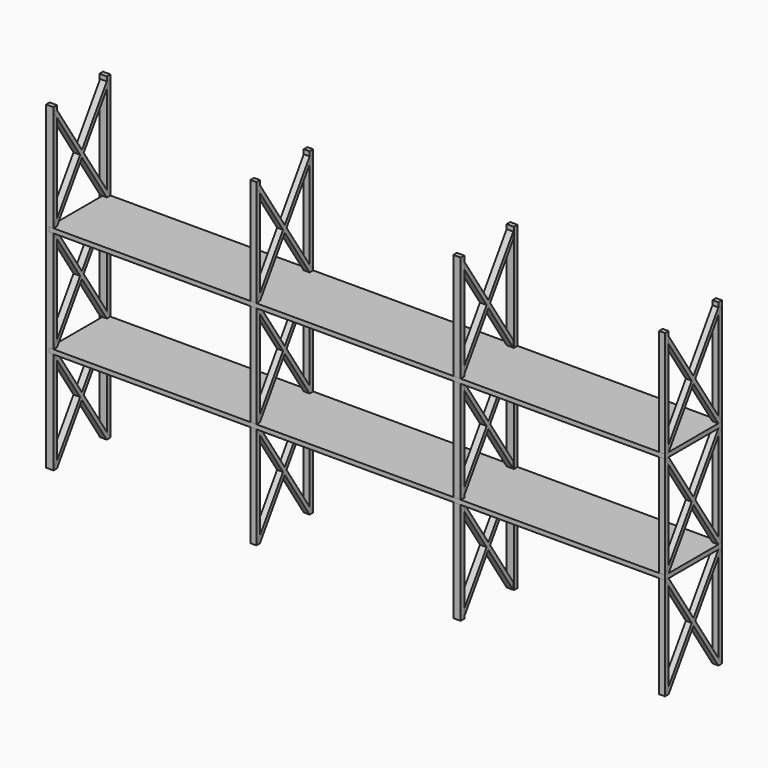
from build123d import *

# Parameters (mm, degrees)
F0_W           = 7010.4
F0_H           = 76.2
F1_DEPTH       = 1219.2
F2_W           = 76.2
F2_H           = 5486.4
F3_DEPTH       = 76.2
F3_DEPTH_BACK  = 50.8
F4_W           = 76.2
F4_H           = 5486.4
F5_DEPTH       = 50.8
F5_DEPTH_BACK  = 76.2
F7_DEPTH       = 38.1
F7_DEPTH_BACK  = 76.2
F9_DEPTH       = 38.1
F9_DEPTH_BACK  = 76.2
F11_DEPTH      = 38.1
F11_DEPTH_BACK = 76.2
F13_DEPTH      = 38.1
F13_DEPTH_BACK = 76.2
F15_DEPTH      = 38.1
F15_DEPTH_BACK = 76.2
F17_DEPTH      = 38.1
F17_DEPTH_BACK = 76.2
F18_W          = 101.6
F18_H          = 5486.4
F19_DEPTH      = 76.2
F20_W          = 101.6
F20_H          = 5486.4
F21_DEPTH      = 76.2
F23_DEPTH      = 101.6
F25_DEPTH      = 101.6
F27_DEPTH      = 101.6
F31_W          = 3454.4
F31_H          = 1219.2
F32_DEPTH      = 3657.601


with BuildPart() as f1:
    # F0 (on Front) → F1 (new body)
    with BuildSketch(Plane.XZ):
        with Locations((3505.2, 1790.7)):
            Rectangle(F0_W, F0_H)
    extrude(amount=-F1_DEPTH)



with BuildPart() as f1b:
    # F0 (on Front) → F1, piece 2 (new body)
    with BuildSketch(Plane.XZ):
        with Locations((3505.2, 3619.5)):
            Rectangle(F0_W, F0_H)
    extrude(amount=-F1_DEPTH)


with BuildPart() as f3:
    # F2 (on face) → F3 (new body, two sides)
    with BuildSketch(Plane(origin=(0, 0, 0), x_dir=(0, -1, 0), z_dir=(-1, 0, 0))) as f3_sk:
        with Locations((-38.1, 2743.2)):
            Rectangle(F2_W, F2_H)
    extrude(amount=-F3_DEPTH)
    extrude(f3_sk.sketch, amount=F3_DEPTH_BACK)


with BuildPart() as f3b:
    # F2 (on face) → F3, piece 2 (new body, two sides)
    with BuildSketch(Plane(origin=(0, 0, 0), x_dir=(0, -1, 0), z_dir=(-1, 0, 0))) as f3_2_sk:
        with Locations((-1181.1, 2743.2)):
            Rectangle(F2_W, F2_H)
    extrude(amount=-F3_DEPTH)
    extrude(f3_2_sk.sketch, amount=F3_DEPTH_BACK)


with BuildPart() as f5:
    # F4 (on face) → F5 (new body, two sides)
    with BuildSketch(Plane.YZ.offset(7010.4)) as f5_sk:
        with Locations((38.1, 2743.2)):
            Rectangle(F4_W, F4_H)
    extrude(amount=F5_DEPTH)
    extrude(f5_sk.sketch, amount=-F5_DEPTH_BACK)


with BuildPart() as f5b:
    # F4 (on face) → F5, piece 2 (new body, two sides)
    with BuildSketch(Plane.YZ.offset(7010.4)) as f5_2_sk:
        with Locations((1181.1, 2743.2)):
            Rectangle(F4_W, F4_H)
    extrude(amount=F5_DEPTH)
    extrude(f5_2_sk.sketch, amount=-F5_DEPTH_BACK)


with BuildPart() as f7:
    # F6 (on face) → F7 (new body, two sides)
    with BuildSketch(Plane(origin=(0, 0, 0), x_dir=(0, -1, 0), z_dir=(-1, 0, 0))) as f7_sk:
        Polygon((-1143, 1752.6), (-1219.2, 1752.6), (-647.7, 876.3), (-609.6, 934.72), align=None)
        Polygon((-609.6, 934.72), (-647.7, 876.3), (-609.6, 817.88), (-571.5, 876.3), align=None)
        Polygon((-609.6, 817.88), (-647.7, 876.3), (-1219.2, 0), (-1143, 0), align=None)
        Polygon((-571.5, 876.3), (-609.6, 817.88), (-76.2, 0), (0, 0), align=None)
        Polygon((-76.2, 1752.6), (-609.6, 934.72), (-571.5, 876.3), (0, 1752.6), align=None)
    extrude(amount=F7_DEPTH)
    extrude(f7_sk.sketch, amount=-F7_DEPTH_BACK)


with BuildPart() as f9:
    # F8 (on face) → F9 (new body, two sides)
    with BuildSketch(Plane(origin=(0, 0, 0), x_dir=(0, -1, 0), z_dir=(-1, 0, 0))) as f9_sk:
        Polygon((-1143, 3581.4), (-1219.2, 3581.4), (-647.7, 2705.1), (-609.6, 2763.52), align=None)
        Polygon((-609.6, 2763.52), (-647.7, 2705.1), (-609.6, 2646.68), (-571.5, 2705.1), align=None)
        Polygon((-609.6, 2646.68), (-647.7, 2705.1), (-1219.2, 1828.8), (-1143, 1828.8), align=None)
        Polygon((-571.5, 2705.1), (-609.6, 2646.68), (-76.2, 1828.8), (0, 1828.8), align=None)
        Polygon((-76.2, 3581.4), (-609.6, 2763.52), (-571.5, 2705.1), (0, 3581.4), align=None)
    extrude(amount=F9_DEPTH)
    extrude(f9_sk.sketch, amount=-F9_DEPTH_BACK)


with BuildPart() as f11:
    # F10 (on face) → F11 (new body, two sides)
    with BuildSketch(Plane(origin=(0, 0, 0), x_dir=(0, -1, 0), z_dir=(-1, 0, 0))) as f11_sk:
        Polygon((-1143, 5410.2), (-1219.2, 5410.2), (-647.7, 4533.9), (-609.6, 4592.32), align=None)
        Polygon((-609.6, 4592.32), (-647.7, 4533.9), (-609.6, 4475.48), (-571.5, 4533.9), align=None)
        Polygon((-609.6, 4475.48), (-647.7, 4533.9), (-1219.2, 3657.6), (-1143, 3657.6), align=None)
        Polygon((-571.5, 4533.9), (-609.6, 4475.48), (-76.2, 3657.6), (0, 3657.6), align=None)
        Polygon((-76.2, 5410.2), (-609.6, 4592.32), (-571.5, 4533.9), (0, 5410.2), align=None)
    extrude(amount=F11_DEPTH)
    extrude(f11_sk.sketch, amount=-F11_DEPTH_BACK)


with BuildPart() as f13:
    # F12 (on face) → F13 (new body, two sides)
    with BuildSketch(Plane.YZ.offset(7010.4)) as f13_sk:
        Polygon((76.2, 1752.6), (0, 1752.6), (571.5, 876.3), (609.6, 934.72), align=None)
        Polygon((609.6, 934.72), (571.5, 876.3), (609.6, 817.88), (647.7, 876.3), align=None)
        Polygon((609.6, 817.88), (571.5, 876.3), (0, 0), (76.2, 0), align=None)
        Polygon((647.7, 876.3), (609.6, 817.88), (1143, 0), (1219.2, 0), align=None)
        Polygon((1143, 1752.6), (609.6, 934.72), (647.7, 876.3), (1219.2, 1752.6), align=None)
    extrude(amount=F13_DEPTH)
    extrude(f13_sk.sketch, amount=-F13_DEPTH_BACK)


with BuildPart() as f15:
    # F14 (on face) → F15 (new body, two sides)
    with BuildSketch(Plane.YZ.offset(7010.4)) as f15_sk:
        Polygon((76.2, 3581.4), (0, 3581.4), (571.5, 2705.1), (609.6, 2763.52), align=None)
        Polygon((609.6, 2763.52), (571.5, 2705.1), (609.6, 2646.68), (647.7, 2705.1), align=None)
        Polygon((609.6, 2646.68), (571.5, 2705.1), (0, 1828.8), (76.2, 1828.8), align=None)
        Polygon((647.7, 2705.1), (609.6, 2646.68), (1143, 1828.8), (1219.2, 1828.8), align=None)
        Polygon((1143, 3581.4), (609.6, 2763.52), (647.7, 2705.1), (1219.2, 3581.4), align=None)
    extrude(amount=F15_DEPTH)
    extrude(f15_sk.sketch, amount=-F15_DEPTH_BACK)


with BuildPart() as f17:
    # F16 (on face) → F17 (new body, two sides)
    with BuildSketch(Plane.YZ.offset(7010.4)) as f17_sk:
        Polygon((76.2, 5410.2), (0, 5410.2), (571.5, 4533.9), (609.6, 4592.32), align=None)
        Polygon((609.6, 4592.32), (571.5, 4533.9), (609.6, 4475.48), (647.7, 4533.9), align=None)
        Polygon((609.6, 4475.48), (571.5, 4533.9), (0, 3657.6), (76.2, 3657.6), align=None)
        Polygon((647.7, 4533.9), (609.6, 4475.48), (1143, 3657.6), (1219.2, 3657.6), align=None)
        Polygon((1143, 5410.2), (609.6, 4592.32), (647.7, 4533.9), (1219.2, 5410.2), align=None)
    extrude(amount=F17_DEPTH)
    extrude(f17_sk.sketch, amount=-F17_DEPTH_BACK)


with BuildPart() as f19:
    # F18 (on face) → F19 (new body)
    with BuildSketch(Plane.XZ):
        with Locations((3505.2, 2743.2)):
            Rectangle(F18_W, F18_H)
    extrude(amount=-F19_DEPTH)


with BuildPart() as f21:
    # F20 (on face) → F21 (new body)
    with BuildSketch(Plane(origin=(0, 1219.2, 0), x_dir=(-1, 0, 0), z_dir=(0, 1, 0))):
        with Locations((-3505.2, 2743.2)):
            Rectangle(F20_W, F20_H)
    extrude(amount=-F21_DEPTH)


with BuildPart() as f23:
    # F22 (on face) → F23 (new body)
    with BuildSketch(Plane(origin=(3454.4, 0, 0), x_dir=(0, -1, 0), z_dir=(-1, 0, 0))):
        Polygon((-1143, 1752.6), (-1219.2, 1752.6), (-647.7, 876.3), (-1219.2, 0), (-1143, 0), (-609.6, 817.88), (-76.2, 0), (0, 0), (-571.5, 876.3), (0, 1752.6), (-76.2, 1752.6), (-609.6, 934.72), align=None)
    extrude(amount=-F23_DEPTH)


with BuildPart() as f25:
    # F24 (on face) → F25 (new body)
    with BuildSketch(Plane(origin=(3454.4, 0, 0), x_dir=(0, -1, 0), z_dir=(-1, 0, 0))):
        Polygon((-1143, 3581.6561437607), (-1219.2, 3581.6561437607), (-647.7, 2705.3561437607), (-1219.2, 1829.0561437607), (-1143, 1829.0561437607), (-609.6, 2646.9361437607), (-76.2, 1829.0561437607), (0, 1829.0561437607), (-571.5, 2705.3561437607), (0, 3581.6561437607), (-76.2, 3581.6561437607), (-609.6, 2763.7761437607), align=None)
    extrude(amount=-F25_DEPTH)


with BuildPart() as f27:
    # F26 (on face) → F27 (new body)
    with BuildSketch(Plane(origin=(3454.4, 0, 0), x_dir=(0, -1, 0), z_dir=(-1, 0, 0))):
        Polygon((-1143, 5409.0953327179), (-1219.2, 5409.0953327179), (-647.7, 4532.7953327179), (-1219.2, 3656.4953327179), (-1143, 3656.4953327179), (-609.6, 4474.3753327179), (-76.2, 3656.4953327179), (0, 3656.4953327179), (-571.5, 4532.7953327179), (0, 5409.0953327179), (-76.2, 5409.0953327179), (-609.6, 4591.2153327179), align=None)
    extrude(amount=-F27_DEPTH)


with BuildPart() as f28_1:
    # F28: instance of F21
    add(f21.part.mirror(Plane(origin=(7010.4, 609.6, 3619.5), x_dir=(0, 1, 0), z_dir=(1, 0, 0))))


with BuildPart() as f28_2:
    # F28: instance of F27
    add(f27.part.mirror(Plane(origin=(7010.4, 609.6, 3619.5), x_dir=(0, 1, 0), z_dir=(1, 0, 0))))


with BuildPart() as f28_3:
    # F28: instance of F19
    add(f19.part.mirror(Plane(origin=(7010.4, 609.6, 3619.5), x_dir=(0, 1, 0), z_dir=(1, 0, 0))))


with BuildPart() as f28_4:
    # F28: instance of F25
    add(f25.part.mirror(Plane(origin=(7010.4, 609.6, 3619.5), x_dir=(0, 1, 0), z_dir=(1, 0, 0))))


with BuildPart() as f28_5:
    # F28: instance of F23
    add(f23.part.mirror(Plane(origin=(7010.4, 609.6, 3619.5), x_dir=(0, 1, 0), z_dir=(1, 0, 0))))


with BuildPart() as f1_1:
    add(f1.part)

    add(f1b.part)  # F30 merges F1b
    # F30: F1b, F1 across plane
    add(f1b.part.mirror(Plane(origin=(7010.4, 609.6, 3619.5), x_dir=(0, 1, 0), z_dir=(1, 0, 0))))
    add(f1.part.mirror(Plane(origin=(7010.4, 609.6, 3619.5), x_dir=(0, 1, 0), z_dir=(1, 0, 0))))

    # F31 (on face) → F32 (cut, through all)
    with BuildSketch(Plane.XY.offset(3657.6)):
        with Locations((12293.6, 609.6)):
            Rectangle(F31_W, F31_H)
    extrude(amount=-F32_DEPTH, mode=Mode.SUBTRACT)


solid = Compound([f3.part, f3b.part, f5.part, f5b.part, f7.part, f9.part, f11.part, f13.part, f15.part, f17.part, f19.part, f21.part, f23.part, f25.part, f27.part, f28_1.part, f28_2.part, f28_3.part, f28_4.part, f28_5.part, f1_1.part])
